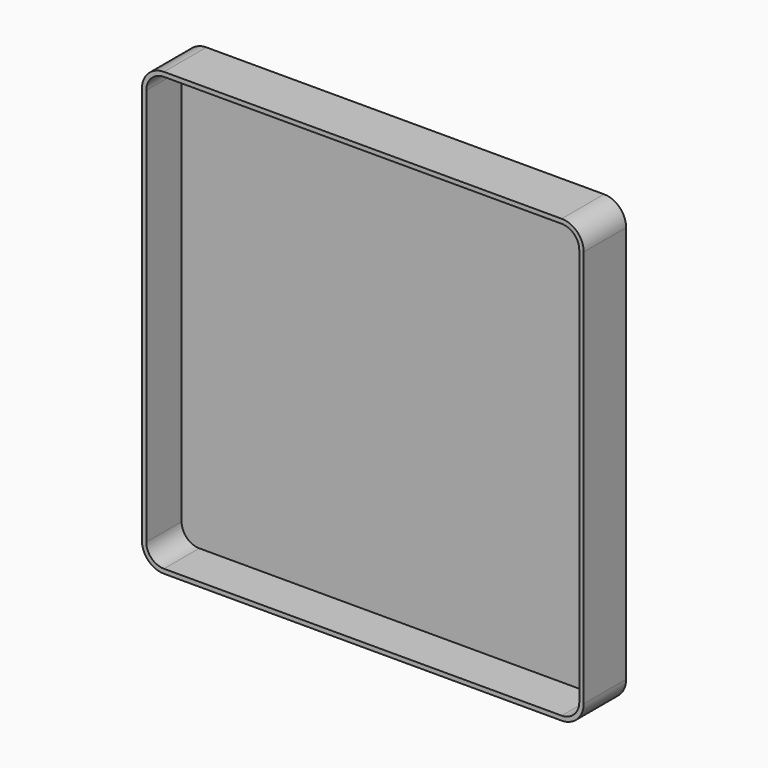
from build123d import *

# Parameters (mm, degrees)
F1_DEPTH = 60
F2_DEPTH = 10


with BuildPart() as f1:
    # F0 (on Front) → F1 (new body)
    with BuildSketch(Plane.XZ):
        with BuildLine():
            Line((250, -205), (250, 20))
            Line((250, 20), (250, 245))
            ThreePointArc((250, 245), (242.67767, 262.67767), (225, 270))
            Line((225, 270), (-225, 270))
            ThreePointArc((-225, 270), (-242.67767, 262.67767), (-250, 245))
            Line((-250, 245), (-250, -205))
            ThreePointArc((-250, -205), (-242.67767, -222.67767), (-225, -230))
            Line((-225, -230), (225, -230))
            ThreePointArc((225, -230), (242.67767, -222.67767), (250, -205))
        make_face()
        with BuildLine():
            Line((245.000005, 20), (245.000005, -205))
            ThreePointArc((245.000005, -205), (239.142139, -219.142139), (225, -225.000005))
            Line((225, -225.000005), (-225, -225.000005))
            ThreePointArc((-225, -225.000005), (-239.142139, -219.142139), (-245.000005, -205))
            Line((-245.000005, -205), (-245.000005, 245))
            ThreePointArc((-245.000005, 245), (-239.142139, 259.142139), (-225, 265.000005))
            Line((-225, 265.000005), (225, 265.000005))
            ThreePointArc((225, 265.000005), (239.142139, 259.142139), (245.000005, 245))
            Line((245.000005, 245), (245.000005, 20))
        make_face(mode=Mode.SUBTRACT)
    extrude(amount=F1_DEPTH)

    # F0 (on Front) → F2 (join)
    with BuildSketch(Plane.XZ):
        with BuildLine():
            ThreePointArc((225, -225.000005), (239.142139, -219.142139), (245.000005, -205))
            Line((245.000005, -205), (245.000005, 20))
            Line((245.000005, 20), (245.000005, 245))
            ThreePointArc((245.000005, 245), (239.142139, 259.142139), (225, 265.000005))
            Line((225, 265.000005), (-225, 265.000005))
            ThreePointArc((-225, 265.000005), (-239.142139, 259.142139), (-245.000005, 245))
            Line((-245.000005, 245), (-245.000005, -205))
            ThreePointArc((-245.000005, -205), (-239.142139, -219.142139), (-225, -225.000005))
            Line((-225, -225.000005), (225, -225.000005))
        make_face()
    extrude(amount=F2_DEPTH)


solid = f1.part
